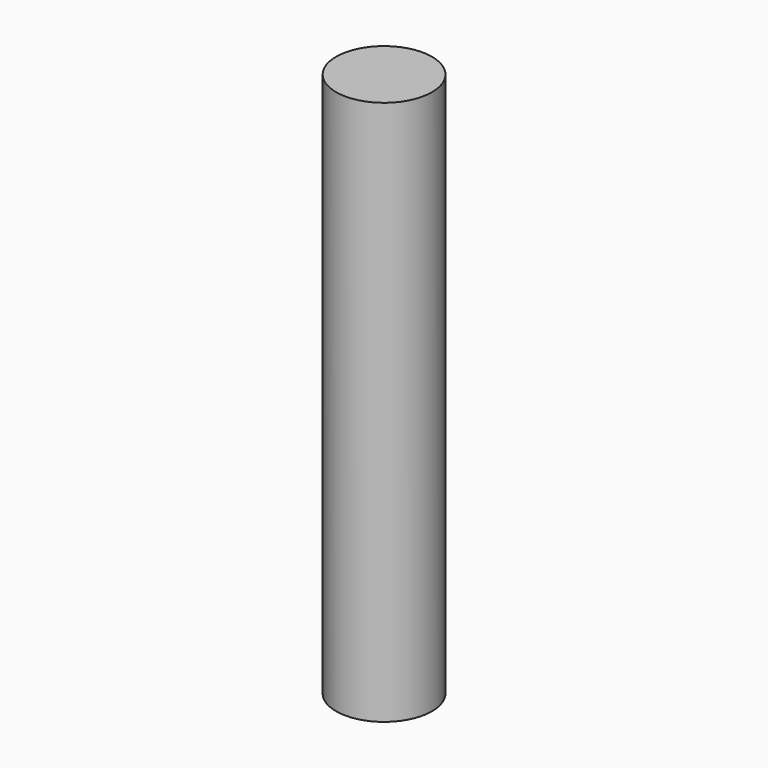
from build123d import *

# Parameters (mm, degrees)
CYLINDER_R     = 1.3208
CYLINDER_DEPTH = 15


with BuildPart() as part:
    # Cylinder → Cylinder (new body)
    with BuildSketch(Plane.XY.offset(-2.5)):
        Circle(CYLINDER_R)
    extrude(amount=CYLINDER_DEPTH)


solid = part.part
